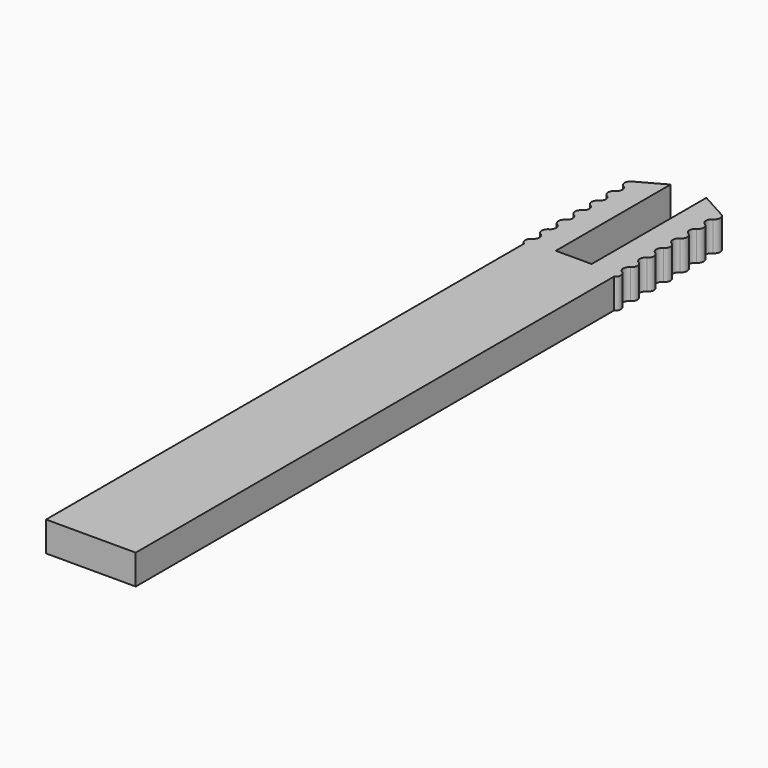
from build123d import *

# Parameters (mm, degrees)
PAD007_DEPTH         = 1
MIRRORED007_FACE34_W = 3
MIRRORED007_FACE34_H = 1
PAD008_DEPTH         = 20


with BuildPart() as part:
    # Sketch008 → Pad007 (new body)
    with BuildSketch(Plane.XY):
        with BuildLine():
            Line((0, 0.2), (0.6, 0.2))
            Line((0.6, 0.2), (0.6, 5))
            Line((1.496626, 4.505237), (0.6, 5))
            ThreePointArc((1.5, 4.156922), (1.599991, 4.332064), (1.496626, 4.505237))
            ThreePointArc((1.5, 4.156922), (1.4, 3.983717), (1.5, 3.810512))
            ThreePointArc((1.5, 3.464102), (1.6, 3.637307), (1.5, 3.810512))
            ThreePointArc((1.5, 3.464102), (1.4, 3.290897), (1.5, 3.117691))
            ThreePointArc((1.5, 2.771281), (1.6, 2.944486), (1.5, 3.117691))
            ThreePointArc((1.5, 2.771281), (1.4, 2.598076), (1.5, 2.424871))
            ThreePointArc((1.5, 2.078461), (1.6, 2.251666), (1.5, 2.424871))
            ThreePointArc((1.5, 2.078461), (1.4, 1.905256), (1.5, 1.732051))
            ThreePointArc((1.5, 1.385641), (1.6, 1.558846), (1.5, 1.732051))
            ThreePointArc((1.5, 1.385641), (1.4, 1.212436), (1.5, 1.03923))
            ThreePointArc((1.5, 0.69282), (1.6, 0.866025), (1.5, 1.03923))
            ThreePointArc((1.5, 0.69282), (1.4, 0.519615), (1.5, 0.34641))
            ThreePointArc((1.5, 0), (1.6, 0.173205), (1.5, 0.34641))
            Line((0, 0), (1.5, 0))
            Line((0, 0), (0, 0.2))
        make_face()
    pad007 = extrude(amount=PAD007_DEPTH)

    # Mirrored007: Pad007 across Sketch008 V_Axis
    add(pad007.mirror(Plane(origin=(0, 0, 0), x_dir=(0, 0, 1), z_dir=(1, 0, 0))))

    # Mirrored007 Face34 → Pad008 (add)
    with BuildSketch(Plane(origin=(0, 0, 0.5), x_dir=(-1, 0, 0), z_dir=(0, -1, 0))):
        Rectangle(MIRRORED007_FACE34_W, MIRRORED007_FACE34_H)
    extrude(amount=PAD008_DEPTH)


solid = part.part
